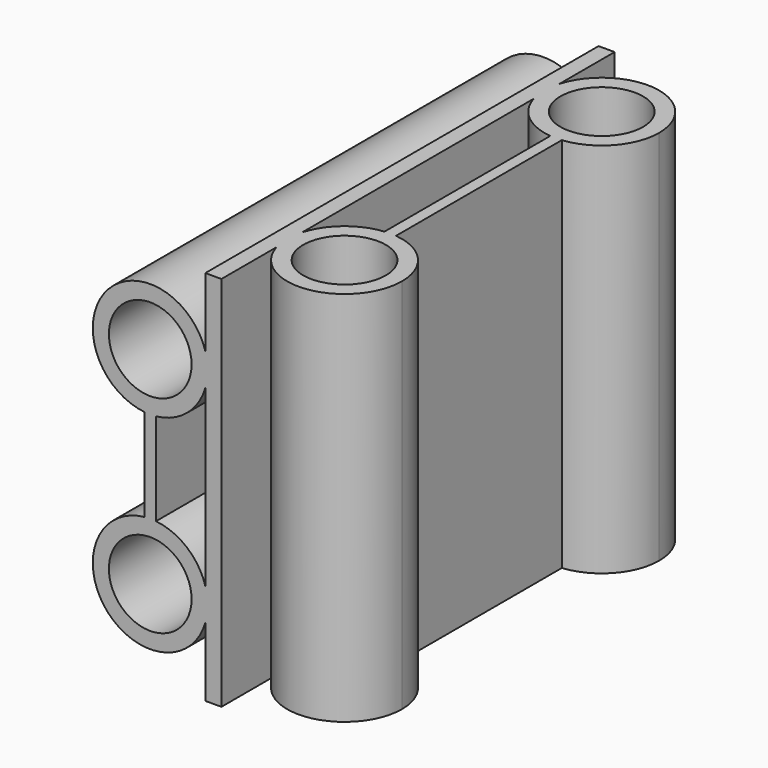
from build123d import *

# Parameters (mm, degrees)
F2_W          = 7
F2_H          = 214
F3_DEPTH      = 82
F3_DEPTH_BACK = 82
F0_R          = 18
F4_DEPTH      = 107
F4_DEPTH_BACK = 107
F1_R          = 18
F5_DEPTH      = 82
F5_DEPTH_BACK = 82


with BuildPart() as f3:
    # F2 (on Top) → F3 (new body, two sides)
    with BuildSketch(Plane.XY) as f3_sk:
        with Locations((-27.5, 0)):
            Rectangle(F2_W, F2_H)
    extrude(amount=F3_DEPTH)
    extrude(f3_sk.sketch, amount=-F3_DEPTH_BACK)

    # F0 (on Front) → F4 (join, two sides)
    with BuildSketch(Plane.XZ) as f4_sk:
        with BuildLine():
            ThreePointArc((-52.5, 20.125314), (-36.459504, 28.22949), (-30, 45))
            ThreePointArc((-30, 45), (-71.77051, 63.540496), (-57.5, 20.125314))
            Line((-57.5, 20.125314), (-52.5, 20.125314))
        make_face()
        with Locations((-55, 45)):
            Circle(F0_R, mode=Mode.SUBTRACT)
        with BuildLine():
            Line((-52.5, -20.125314), (-57.5, -20.125314))
            ThreePointArc((-57.5, -20.125314), (-71.77051, -63.540496), (-30, -45))
            ThreePointArc((-30, -45), (-36.459504, -28.22949), (-52.5, -20.125314))
        make_face()
        with Locations((-55, -45)):
            Circle(F0_R, mode=Mode.SUBTRACT)
        with BuildLine():
            Line((-52.5, 20.125314), (-57.5, 20.125314))
            ThreePointArc((-57.5, 20.125314), (-55, 20), (-52.5, 20.125314))
        make_face()
        with BuildLine():
            ThreePointArc((-52.5, 20.125314), (-55, 20), (-57.5, 20.125314))
            Line((-57.5, 20.125314), (-57.5, -20.125314))
            ThreePointArc((-57.5, -20.125314), (-55, -20), (-52.5, -20.125314))
            Line((-52.5, -20.125314), (-52.5, 20.125314))
        make_face()
        with BuildLine():
            ThreePointArc((-52.5, -20.125314), (-55, -20), (-57.5, -20.125314))
            Line((-57.5, -20.125314), (-52.5, -20.125314))
        make_face()
    extrude(amount=F4_DEPTH)
    extrude(f4_sk.sketch, amount=-F4_DEPTH_BACK)

    # F1 (on Top) → F5 (join, two sides)
    with BuildSketch(Plane.XY) as f5_sk:
        with BuildLine():
            ThreePointArc((2.5, 45.125314), (18.540496, 53.22949), (25, 70))
            ThreePointArc((25, 70), (-16.77051, 88.540496), (-2.5, 45.125314))
            Line((-2.5, 45.125314), (2.5, 45.125314))
        make_face()
        with Locations((0, 70)):
            Circle(F1_R, mode=Mode.SUBTRACT)
        with BuildLine():
            ThreePointArc((2.5, 45.125314), (0, 45), (-2.5, 45.125314))
            Line((-2.5, 45.125314), (-2.5, -45.125314))
            ThreePointArc((-2.5, -45.125314), (0, -45), (2.5, -45.125314))
            Line((2.5, -45.125314), (2.5, 45.125314))
        make_face()
        with BuildLine():
            Line((2.5, 45.125314), (-2.5, 45.125314))
            ThreePointArc((-2.5, 45.125314), (0, 45), (2.5, 45.125314))
        make_face()
        with BuildLine():
            Line((2.5, -45.125314), (-2.5, -45.125314))
            ThreePointArc((-2.5, -45.125314), (-16.77051, -88.540496), (25, -70))
            ThreePointArc((25, -70), (18.540496, -53.22949), (2.5, -45.125314))
        make_face()
        with Locations((0, -70)):
            Circle(F1_R, mode=Mode.SUBTRACT)
        with BuildLine():
            ThreePointArc((2.5, -45.125314), (0, -45), (-2.5, -45.125314))
            Line((-2.5, -45.125314), (2.5, -45.125314))
        make_face()
    extrude(amount=F5_DEPTH)
    extrude(f5_sk.sketch, amount=-F5_DEPTH_BACK)


solid = f3.part
